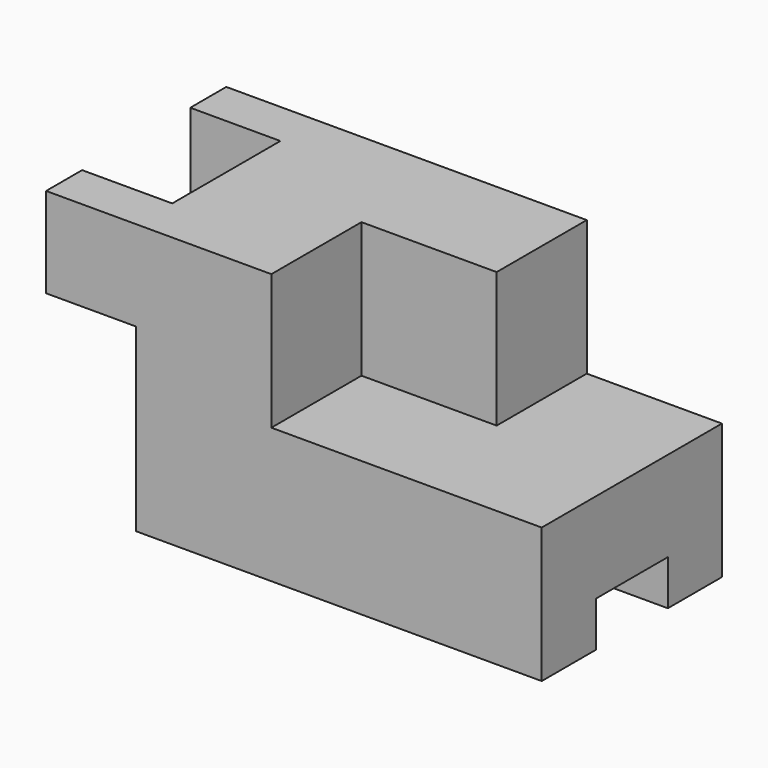
from build123d import *

# Parameters (mm, degrees)
F1_DEPTH      = 50
F2_W          = 30
F2_H          = 40
F3_DEPTH      = 20
F4_W          = 30
F4_H          = 25
F5_DEPTH      = 30
F5_DEPTH_BACK = 25
F6_W          = 20
F6_H          = 20
F7_DEPTH      = 90


with BuildPart() as f1:
    # F0 (on Front) → F1 (new body)
    with BuildSketch(Plane.XZ):
        Polygon((-90, 0), (0, 0), (0, 30), (-30, 30), (-30, 60), (-110, 60), (-110, 40), (-90, 40), align=None)
    extrude(amount=-F1_DEPTH)

    # F2 (on face) → F3 (cut)
    with BuildSketch(Plane(origin=(-110, 0, 0), x_dir=(0, -1, 0), z_dir=(-1, 0, 0))):
        with Locations((-25, 60)):
            Rectangle(F2_W, F2_H)
    extrude(amount=-F3_DEPTH, mode=Mode.SUBTRACT)

    # F4 (on face) → F5 (cut, two sides)
    with BuildSketch(Plane.XY.offset(60)) as f5_sk:
        with Locations((-45, 12.5)):
            Rectangle(F4_W, F4_H)
    extrude(amount=-F5_DEPTH, mode=Mode.SUBTRACT)
    extrude(f5_sk.sketch, amount=-F5_DEPTH_BACK, mode=Mode.SUBTRACT)

    # F6 (on face) → F7 (cut)
    with BuildSketch(Plane.YZ):
        with Locations((25, 0)):
            Rectangle(F6_W, F6_H)
    extrude(amount=-F7_DEPTH, mode=Mode.SUBTRACT)


solid = f1.part
